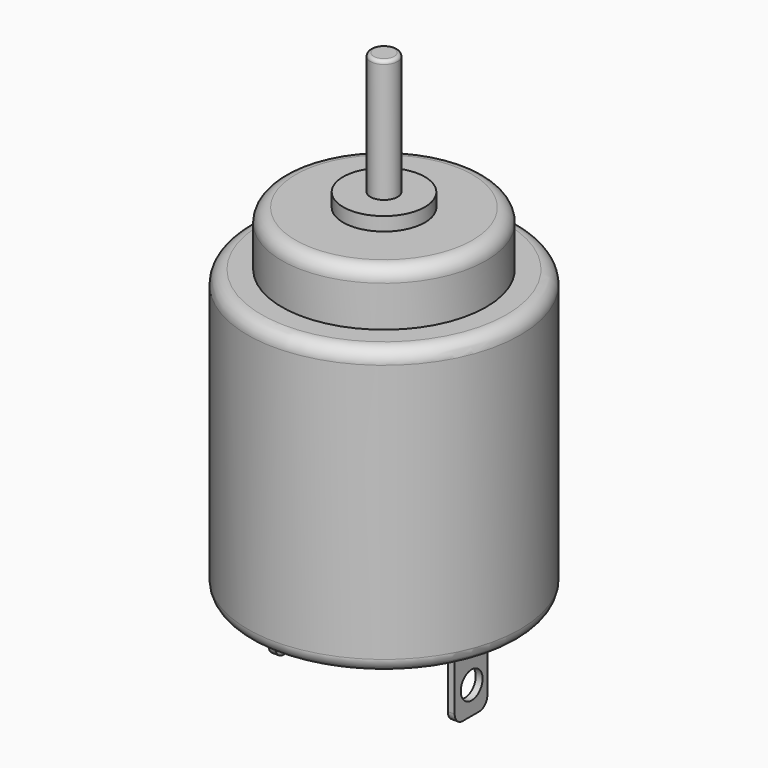
from build123d import *

# Parameters (mm, degrees)
F0_R      = 10
F1_DEPTH  = 21
F2_R      = 7.5
F3_DEPTH  = 4
F4_R      = 3
F5_DEPTH  = 1
F6_R      = 1
F7_R      = 1
F8_R      = 1
F9_R      = 1
F10_DEPTH = 9
F11_R     = 0.25
F12_W     = 0.5
F12_H     = 3
F13_DEPTH = 6
F14_R     = 1
F15_DEPTH = 3
F16_R     = 1
F17_DEPTH = 3
F18_R     = 0.75
F19_R     = 0.75


with BuildPart() as f1:
    # F0 (on Top) → F1 (new body)
    with BuildSketch(Plane.XY):
        Circle(F0_R)
    extrude(amount=F1_DEPTH)

    # F2 (on face) → F3 (join)
    with BuildSketch(Plane.XY.offset(21)):
        Circle(F2_R)
    extrude(amount=F3_DEPTH)

    # F4 (on face) → F5 (join)
    with BuildSketch(Plane.XY.offset(25)):
        Circle(F4_R)
    extrude(amount=F5_DEPTH)

    # F6
    f6_edges = [f1.edges().sort_by_distance(p)[0] for p in [
        (-10, 0, 0),
    ]]
    fillet(f6_edges, radius=F6_R)

    # F7
    f7_edges = [f1.edges().sort_by_distance(p)[0] for p in [
        (-10, 0, 21),
    ]]
    fillet(f7_edges, radius=F7_R)

    # F8
    f8_edges = [f1.edges().sort_by_distance(p)[0] for p in [
        (-7.5, 0, 25),
    ]]
    fillet(f8_edges, radius=F8_R)

    # F9 (on face) → F10 (join)
    with BuildSketch(Plane.XY.offset(26)):
        Circle(F9_R)
    extrude(amount=F10_DEPTH)

    # F11
    f11_edges = [f1.edges().sort_by_distance(p)[0] for p in [
        (-1, 0, 35),
    ]]
    fillet(f11_edges, radius=F11_R)

    # F12 (on face) → F13 (join)
    with BuildSketch(Plane(origin=(0, 0, 0), x_dir=(1, 0, 0), z_dir=(0, 0, -1))):
        with Locations((-7.267895, -0.302635)):
            Rectangle(F12_W, F12_H)
        with Locations((5.892853, -0.302635)):
            Rectangle(F12_W, F12_H)
    extrude(amount=F13_DEPTH)

    # F14 (on face) → F15 (cut)
    with BuildSketch(Plane(origin=(-7.517895, 0, 0), x_dir=(0, -1, 0), z_dir=(-1, 0, 0))):
        with Locations((-0.34836, -4)):
            Circle(F14_R)
    extrude(amount=-F15_DEPTH, mode=Mode.SUBTRACT)

    # F16 (on face) → F17 (cut)
    with BuildSketch(Plane.YZ.offset(6.142853)):
        with Locations((0.362238, -4)):
            Circle(F16_R)
    extrude(amount=-F17_DEPTH, mode=Mode.SUBTRACT)

    # F18
    f18_edges = [f1.edges().sort_by_distance(p)[0] for p in [
        (-7.267895, -1.197365, -6),
        (-7.267895, 1.802635, -6),
    ]]
    fillet(f18_edges, radius=F18_R)

    # F19
    f19_edges = [f1.edges().sort_by_distance(p)[0] for p in [
        (5.892853, -1.197365, -6),
        (5.892853, 1.802635, -6),
    ]]
    fillet(f19_edges, radius=F19_R)


solid = f1.part
